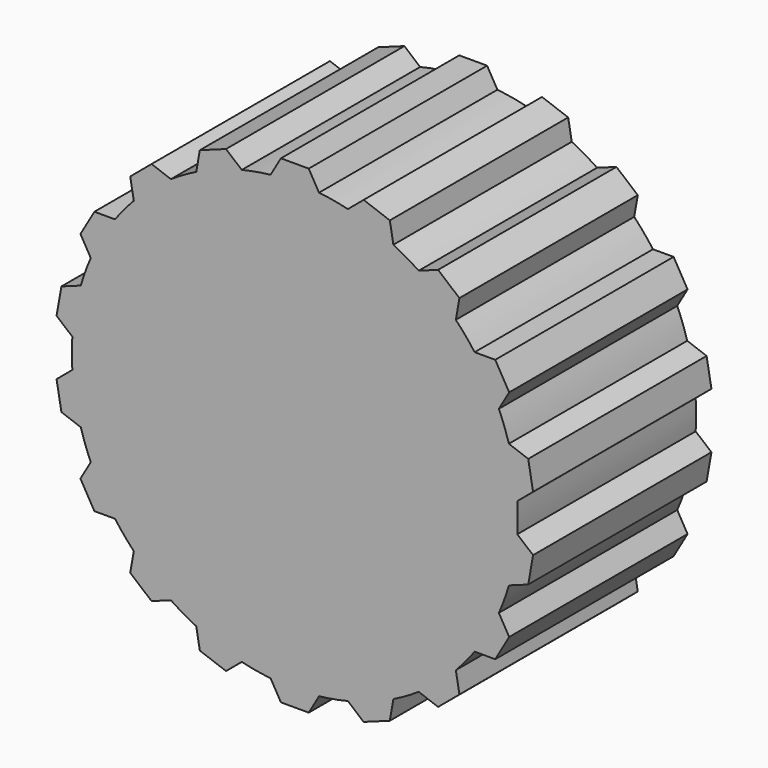
from build123d import *

# Parameters (mm, degrees)
F1_DEPTH = 25.4


with BuildPart() as f1:
    # F0 (on Front) → F1 (new body)
    with BuildSketch(Plane.XZ):
        with BuildLine():
            Line((-1.5875, 27.281528), (-2.760676, 25.249528))
            ThreePointArc((-2.760676, 25.249528), (-4.410664, 25.014117), (-6.041661, 24.671002))
            ThreePointArc((-6.041661, 24.671002), (-8.687312, 23.868193), (-11.230034, 22.782589))
            ThreePointArc((-11.230034, 22.782589), (-12.7, 21.997045), (-14.115283, 21.116789))
            ThreePointArc((-14.115283, 21.116789), (-16.326805, 19.457529), (-18.344884, 17.567733))
            ThreePointArc((-18.344884, 17.567733), (-19.457529, 16.326805), (-20.486395, 15.015579))
            ThreePointArc((-20.486395, 15.015579), (-21.997045, 12.7), (-23.247071, 10.233949))
            ThreePointArc((-23.247071, 10.233949), (-23.868193, 8.687312), (-24.386545, 7.103269))
            ThreePointArc((-24.386545, 7.103269), (-25.014117, 4.410664), (-25.345317, 1.6658))
            ThreePointArc((-25.345317, 1.6658), (-25.4, 0), (-25.345317, -1.6658))
            ThreePointArc((-25.345317, -1.6658), (-25.014117, -4.410664), (-24.386545, -7.103269))
            ThreePointArc((-24.386545, -7.103269), (-23.868193, -8.687312), (-23.247071, -10.233949))
            ThreePointArc((-23.247071, -10.233949), (-21.997045, -12.7), (-20.486395, -15.015579))
            ThreePointArc((-20.486395, -15.015579), (-19.457529, -16.326805), (-18.344884, -17.567733))
            ThreePointArc((-18.344884, -17.567733), (-16.326805, -19.457529), (-14.115283, -21.116789))
            ThreePointArc((-14.115283, -21.116789), (-12.7, -21.997045), (-11.230034, -22.782589))
            ThreePointArc((-11.230034, -22.782589), (-8.687312, -23.868193), (-6.041661, -24.671002))
            ThreePointArc((-6.041661, -24.671002), (-4.410664, -25.014117), (-2.760676, -25.249528))
            ThreePointArc((-2.760676, -25.249528), (0, -25.4), (2.760676, -25.249528))
            ThreePointArc((2.760676, -25.249528), (4.410664, -25.014117), (6.041661, -24.671002))
            ThreePointArc((6.041661, -24.671002), (8.687312, -23.868193), (11.230034, -22.782589))
            ThreePointArc((11.230034, -22.782589), (12.7, -21.997045), (14.115283, -21.116789))
            ThreePointArc((14.115283, -21.116789), (16.326805, -19.457529), (18.344884, -17.567733))
            ThreePointArc((18.344884, -17.567733), (19.457529, -16.326805), (20.486395, -15.015579))
            ThreePointArc((20.486395, -15.015579), (21.997045, -12.7), (23.247071, -10.233949))
            ThreePointArc((23.247071, -10.233949), (23.868193, -8.687312), (24.386545, -7.103269))
            ThreePointArc((24.386545, -7.103269), (25.014117, -4.410664), (25.345317, -1.6658))
            ThreePointArc((25.345317, -1.6658), (25.4, 0), (25.345317, 1.6658))
            ThreePointArc((25.345317, 1.6658), (25.014117, 4.410664), (24.386545, 7.103269))
            ThreePointArc((24.386545, 7.103269), (23.868193, 8.687312), (23.247071, 10.233949))
            ThreePointArc((23.247071, 10.233949), (21.997045, 12.7), (20.486395, 15.015579))
            ThreePointArc((20.486395, 15.015579), (19.457529, 16.326805), (18.344884, 17.567733))
            ThreePointArc((18.344884, 17.567733), (16.326805, 19.457529), (14.115283, 21.116789))
            ThreePointArc((14.115283, 21.116789), (12.7, 21.997045), (11.230034, 22.782589))
            ThreePointArc((11.230034, 22.782589), (8.687312, 23.868193), (6.041661, 24.671002))
            ThreePointArc((6.041661, 24.671002), (4.410664, 25.014117), (2.760676, 25.249528))
            Line((2.760676, 25.249528), (1.5875, 27.281528))
            Line((1.5875, 27.281528), (-1.5875, 27.281528))
        make_face()
        with BuildLine():
            ThreePointArc((-11.230034, 22.782589), (-8.687312, 23.868193), (-6.041661, 24.671002))
            Line((-6.041661, 24.671002), (-7.83907, 26.179208))
            Line((-7.83907, 26.179208), (-10.822594, 25.093294))
            Line((-10.822594, 25.093294), (-11.230034, 22.782589))
        make_face()
        with BuildLine():
            ThreePointArc((-18.344884, 17.567733), (-16.326805, 19.457529), (-14.115283, 21.116789))
            Line((-14.115283, 21.116789), (-16.320133, 21.919288))
            Line((-16.320133, 21.919288), (-18.752324, 19.878438))
            Line((-18.752324, 19.878438), (-18.344884, 17.567733))
        make_face()
        with BuildLine():
            Line((7.83907, 26.179208), (6.041661, 24.671002))
            ThreePointArc((6.041661, 24.671002), (8.687312, 23.868193), (11.230034, 22.782589))
            Line((11.230034, 22.782589), (10.822594, 25.093294))
            Line((10.822594, 25.093294), (7.83907, 26.179208))
        make_face()
        with BuildLine():
            ThreePointArc((-23.247071, 10.233949), (-21.997045, 12.7), (-20.486395, 15.015579))
            Line((-20.486395, 15.015579), (-22.832746, 15.015579))
            Line((-22.832746, 15.015579), (-24.420246, 12.265949))
            Line((-24.420246, 12.265949), (-23.247071, 10.233949))
        make_face()
        with BuildLine():
            Line((16.320133, 21.919288), (14.115283, 21.116789))
            ThreePointArc((14.115283, 21.116789), (16.326805, 19.457529), (18.344884, 17.567733))
            Line((18.344884, 17.567733), (18.752324, 19.878438))
            Line((18.752324, 19.878438), (16.320133, 21.919288))
        make_face()
        with BuildLine():
            ThreePointArc((-25.345317, 1.6658), (-25.014117, 4.410664), (-24.386545, 7.103269))
            Line((-24.386545, 7.103269), (-26.591394, 6.30077))
            Line((-26.591394, 6.30077), (-27.142727, 3.174005))
            Line((-27.142727, 3.174005), (-25.345317, 1.6658))
        make_face()
        with BuildLine():
            Line((22.832746, 15.015579), (20.486395, 15.015579))
            ThreePointArc((20.486395, 15.015579), (21.997045, 12.7), (23.247071, 10.233949))
            Line((23.247071, 10.233949), (24.420246, 12.265949))
            Line((24.420246, 12.265949), (22.832746, 15.015579))
        make_face()
        with BuildLine():
            ThreePointArc((-24.386545, -7.103269), (-25.014117, -4.410664), (-25.345317, -1.6658))
            Line((-25.345317, -1.6658), (-27.142727, -3.174005))
            Line((-27.142727, -3.174005), (-26.591394, -6.30077))
            Line((-26.591394, -6.30077), (-24.386545, -7.103269))
        make_face()
        with BuildLine():
            Line((26.591394, 6.30077), (24.386545, 7.103269))
            ThreePointArc((24.386545, 7.103269), (25.014117, 4.410664), (25.345317, 1.6658))
            Line((25.345317, 1.6658), (27.142727, 3.174005))
            Line((27.142727, 3.174005), (26.591394, 6.30077))
        make_face()
        with BuildLine():
            ThreePointArc((-20.486395, -15.015579), (-21.997045, -12.7), (-23.247071, -10.233949))
            Line((-23.247071, -10.233949), (-24.420246, -12.265949))
            Line((-24.420246, -12.265949), (-22.832746, -15.015579))
            Line((-22.832746, -15.015579), (-20.486395, -15.015579))
        make_face()
        with BuildLine():
            Line((27.142727, -3.174005), (25.345317, -1.6658))
            ThreePointArc((25.345317, -1.6658), (25.014117, -4.410664), (24.386545, -7.103269))
            Line((24.386545, -7.103269), (26.591394, -6.30077))
            Line((26.591394, -6.30077), (27.142727, -3.174005))
        make_face()
        with BuildLine():
            ThreePointArc((-14.115283, -21.116789), (-16.326805, -19.457529), (-18.344884, -17.567733))
            Line((-18.344884, -17.567733), (-18.752324, -19.878438))
            Line((-18.752324, -19.878438), (-16.320133, -21.919288))
            Line((-16.320133, -21.919288), (-14.115283, -21.116789))
        make_face()
        with BuildLine():
            Line((24.420246, -12.265949), (23.247071, -10.233949))
            ThreePointArc((23.247071, -10.233949), (21.997045, -12.7), (20.486395, -15.015579))
            Line((20.486395, -15.015579), (22.832746, -15.015579))
            Line((22.832746, -15.015579), (24.420246, -12.265949))
        make_face()
        with BuildLine():
            ThreePointArc((-6.041661, -24.671002), (-8.687312, -23.868193), (-11.230034, -22.782589))
            Line((-11.230034, -22.782589), (-10.822594, -25.093294))
            Line((-10.822594, -25.093294), (-7.83907, -26.179208))
            Line((-7.83907, -26.179208), (-6.041661, -24.671002))
        make_face()
        with BuildLine():
            Line((18.752324, -19.878438), (18.344884, -17.567733))
            ThreePointArc((18.344884, -17.567733), (16.326805, -19.457529), (14.115283, -21.116789))
            Line((14.115283, -21.116789), (16.320133, -21.919288))
            Line((16.320133, -21.919288), (18.752324, -19.878438))
        make_face()
        with BuildLine():
            ThreePointArc((2.760676, -25.249528), (0, -25.4), (-2.760676, -25.249528))
            Line((-2.760676, -25.249528), (-1.5875, -27.281528))
            Line((-1.5875, -27.281528), (1.5875, -27.281528))
            Line((1.5875, -27.281528), (2.760676, -25.249528))
        make_face()
        with BuildLine():
            Line((10.822594, -25.093294), (11.230034, -22.782589))
            ThreePointArc((11.230034, -22.782589), (8.687312, -23.868193), (6.041661, -24.671002))
            Line((6.041661, -24.671002), (7.83907, -26.179208))
            Line((7.83907, -26.179208), (10.822594, -25.093294))
        make_face()
    extrude(amount=F1_DEPTH)


solid = f1.part
